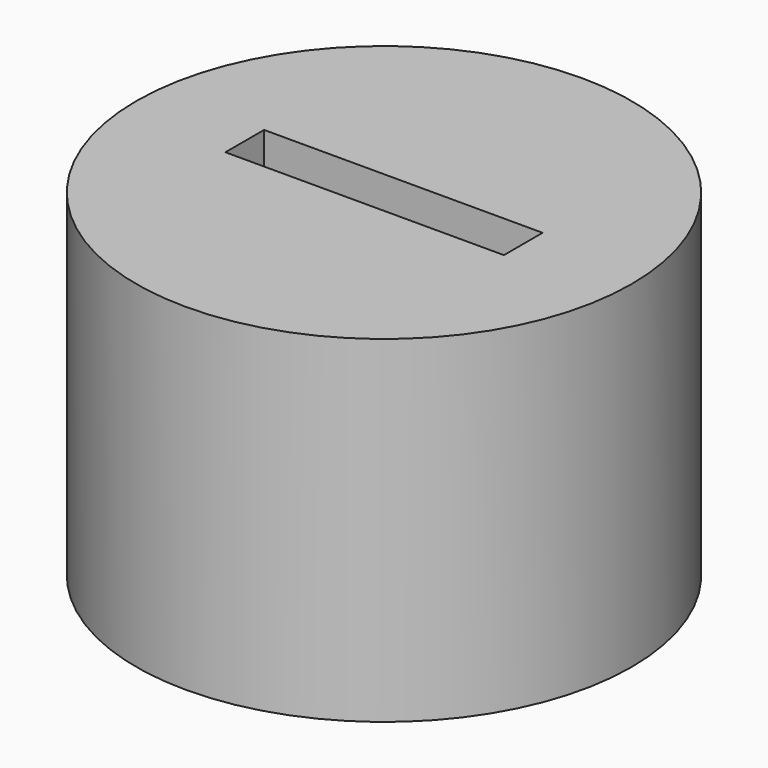
from build123d import *

# Parameters (mm, degrees)
F0_R     = 16.9
F1_DEPTH = 23


with BuildPart() as f1:
    # F0 (on Top) → F1 (new body)
    with BuildSketch(Plane.XY):
        Circle(F0_R)
        Polygon((-9.5, -1.65), (-9.5, 0), (-9.5, 1.65), (0, 1.65), (9.5, 1.65), (9.5, 0), (9.5, -1.65), (0, -1.65), align=None, mode=Mode.SUBTRACT)
    extrude(amount=F1_DEPTH)


solid = f1.part
